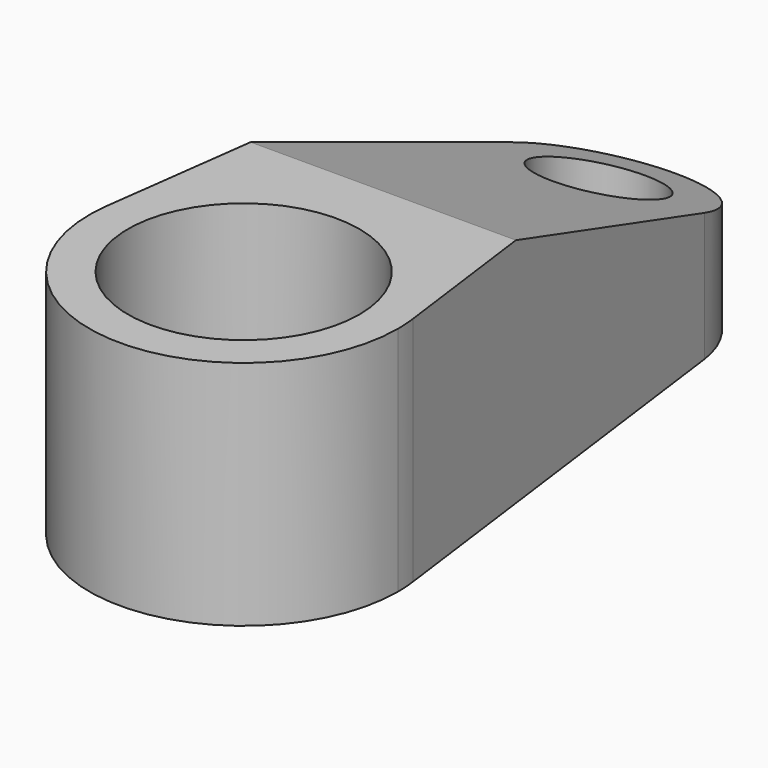
from build123d import *

# Parameters (mm, degrees)
F0_R          = 4.7625
F0_R_2        = 9.525
F1_DEPTH      = 19.05
F3_DEPTH      = 12.701
F3_DEPTH_BACK = 25.4


with BuildPart() as f1:
    # F0 (on Top) → F1 (new body)
    with BuildSketch(Plane.XY):
        with BuildLine():
            ThreePointArc((7.9375, 36.5125), (7.9205291265, 37.031272211), (7.8696890754, 37.547826087))
            ThreePointArc((7.8696890754, 37.547826087), (0, 44.45), (-7.8696890754, 37.547826087))
            ThreePointArc((-7.8696890754, 37.547826087), (-0.518772211, 28.5919708735), (7.9375, 36.5125))
        make_face()
        with Locations((0, 36.5125)):
            Circle(F0_R, mode=Mode.SUBTRACT)
        with BuildLine():
            ThreePointArc((-12.5915025308, 1.6565216618), (-7.75e-08, 12.7), (12.5915025106, 1.6565218155))
            Line((12.5915025106, 1.6565218155), (7.8696890754, 37.547826087))
            ThreePointArc((7.8696890754, 37.547826087), (7.9205291265, 37.031272211), (7.9375, 36.5125))
            ThreePointArc((7.9375, 36.5125), (-0.518772211, 28.5919708735), (-7.8696890754, 37.547826087))
            Line((-7.8696890754, 37.547826087), (-12.5915025308, 1.6565216618))
        make_face()
        with BuildLine():
            ThreePointArc((-12.5915025308, 1.6565216618), (-0.8300354988, -12.6728466049), (12.7, 0))
            ThreePointArc((12.7, 0), (12.6728465998, 0.8300355761), (12.5915025106, 1.6565218155))
            ThreePointArc((12.5915025106, 1.6565218155), (-7.75e-08, 12.7), (-12.5915025308, 1.6565216618))
        make_face()
        Circle(F0_R_2, mode=Mode.SUBTRACT)
    extrude(amount=F1_DEPTH)

    # F2 (on Right) → F3 (cut, two sides)
    with BuildSketch(Plane.YZ) as f3_sk:
        Polygon((46.8362408346, 19.05), (14.3565217391, 19.05), (46.8362408346, 7.2283490319), align=None)
    extrude(amount=-F3_DEPTH, mode=Mode.SUBTRACT)
    extrude(f3_sk.sketch, amount=F3_DEPTH_BACK, mode=Mode.SUBTRACT)


solid = f1.part
